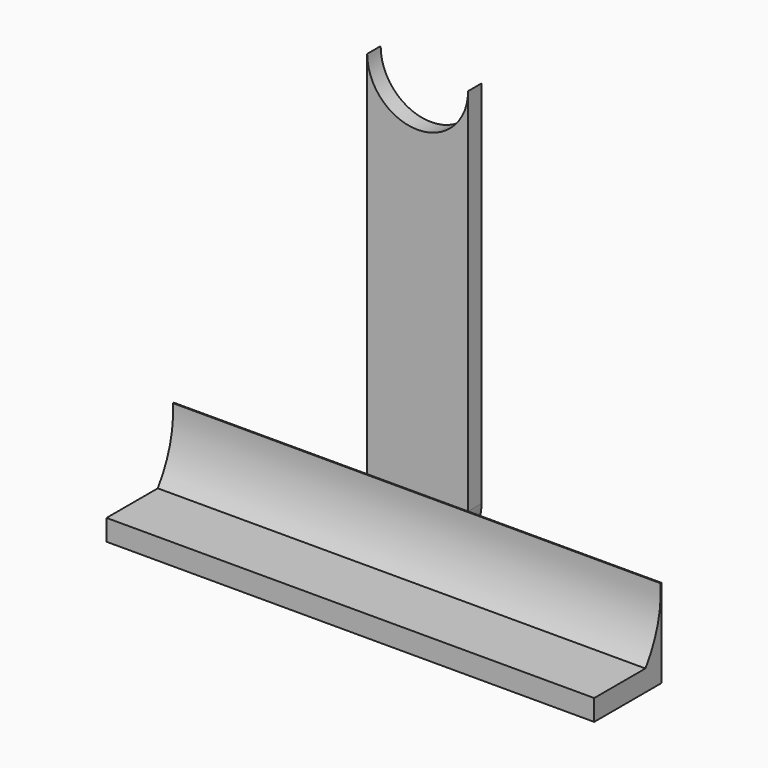
from build123d import *

# Parameters (mm, degrees)
BOX070_W          = 58
BOX070_H          = 10
BOX070_DEPTH      = 2.5
CYLINDER109_R     = 12.5
CYLINDER109_DEPTH = 78
BOX071_W          = 58
BOX071_H          = 10
BOX071_DEPTH      = 10.5
CYLINDER107_W     = 6
CYLINDER107_H     = 2
CYLINDER107_ANGLE = 180
BOX069_W          = 12
BOX069_H          = 2
BOX069_DEPTH      = 44
CYLINDER108_W     = 6
CYLINDER108_H     = 2
CYLINDER108_ANGLE = 180


with BuildPart() as cube059:
    # Box070 → Box070 (new body)
    with BuildSketch(Plane(origin=(68, 24, 21), x_dir=(-1, 0, 0), z_dir=(0, 0, 1))):
        with Locations((29, 5)):
            Rectangle(BOX070_W, BOX070_H)
    extrude(amount=BOX070_DEPTH)


with BuildPart() as cylinder109:
    # Cylinder109 → Cylinder109 (new body)
    with BuildSketch(Plane(origin=(0, 11.4, 30.7), x_dir=(0, 0, -1), z_dir=(1, 0, 0))):
        Circle(CYLINDER109_R)
    extrude(amount=CYLINDER109_DEPTH)


with BuildPart() as fusion042:
    # Box071 → Box071 (new body)
    with BuildSketch(Plane(origin=(68, 24, 21), x_dir=(-1, 0, 0), z_dir=(0, 0, 1))):
        with Locations((29, 5)):
            Rectangle(BOX071_W, BOX071_H)
    extrude(amount=BOX071_DEPTH)

    # Cut056: cut Cylinder109
    add(cylinder109.part, mode=Mode.SUBTRACT)

    # Fusion042: union Cube059
    add(cube059.part)


with BuildPart() as cylinder107:
    # Cylinder107 → Cylinder107 (revolve)
    with BuildSketch(Plane(origin=(39, 26, 75.5), x_dir=(-1, 0, 0), z_dir=(0, 0, 1))):
        with Locations((3, 1)):
            Rectangle(CYLINDER107_W, CYLINDER107_H)
    revolve(axis=Axis((39, 26, 75.5), (0, -1, 0)), revolution_arc=CYLINDER107_ANGLE)


with BuildPart() as cut055:
    # Box069 → Box069 (new body)
    with BuildSketch(Plane(origin=(33, 24, 31.5), x_dir=(1, 0, 0), z_dir=(0, 0, 1))):
        with Locations((6, 1)):
            Rectangle(BOX069_W, BOX069_H)
    extrude(amount=BOX069_DEPTH)

    # Cut055: cut Cylinder107
    add(cylinder107.part, mode=Mode.SUBTRACT)


with BuildPart() as batteryhold001:
    # Cylinder108 → Cylinder108 (revolve)
    with BuildSketch(Plane(origin=(39, 26, 31.5), x_dir=(-1, 0, 0), z_dir=(0, 0, 1))):
        with Locations((3, 1)):
            Rectangle(CYLINDER108_W, CYLINDER108_H)
    revolve(axis=Axis((39, 26, 31.5), (0, -1, 0)), revolution_arc=CYLINDER108_ANGLE)

    # Fusion041: union Cut055
    add(cut055.part)

    # Fusion043: union Fusion042
    add(fusion042.part)


solid = batteryhold001.part
